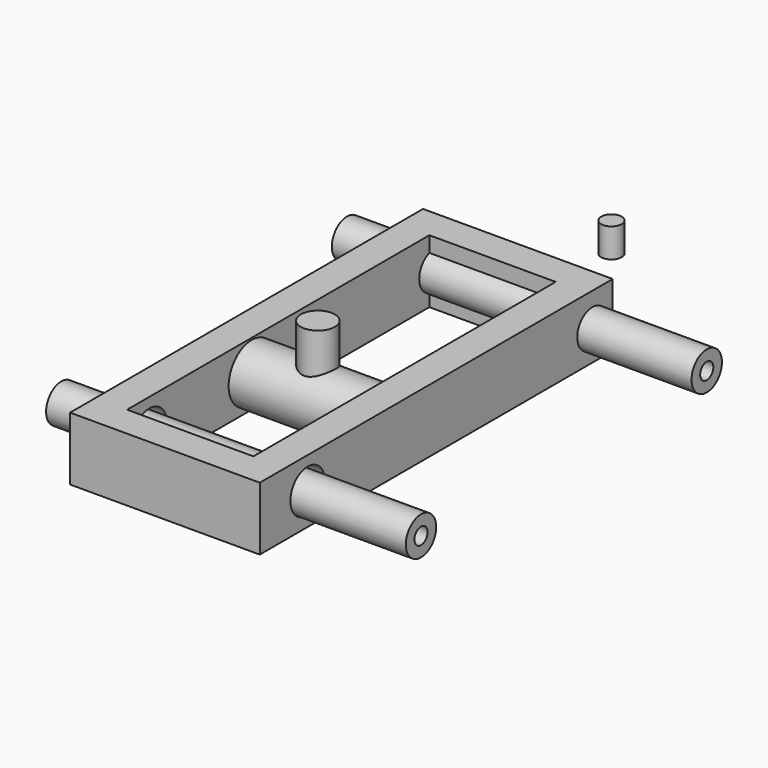
from build123d import *

# Parameters (mm, degrees)
F0_W      = 38.0365
F0_H      = 88.4682
F1_DEPTH  = 12.7
F2_W      = 25.3365
F2_H      = 75.7682
F3_DEPTH  = 25.4
F4_R      = 4.3212761508
F5_DEPTH  = 64.516
F6_R      = 1.6451547685
F7_DEPTH  = 67.31
F8_R      = 3.81
F8_R_2    = 1.6451547685
F9_DEPTH  = 72.136
F12_R     = 5.8133855358
F13_DEPTH = 29.464
F14_R     = 3.4045487812
F15_DEPTH = 7.112
F16_R     = 2.0608101162
F17_DEPTH = 5.842


with BuildPart() as f1:
    # F0 (on Top) → F1 (new body)
    with BuildSketch(Plane.XY):
        with Locations((-8.6641971774, -17.1663029512)):
            Rectangle(F0_W, F0_H)
    extrude(amount=F1_DEPTH)

    # F2 (on face) → F3 (cut)
    with BuildSketch(Plane.XY.offset(12.7)):
        with Locations((-8.6641971774, -17.1663029512)):
            Rectangle(F2_W, F2_H)
    extrude(amount=-F3_DEPTH, mode=Mode.SUBTRACT)

    # F4 (on face) → F5 (cut)
    with BuildSketch(Plane(origin=(-27.6824471774, 0, 0), x_dir=(0, -1, 0), z_dir=(-1, 0, 0))):
        with Locations((49.4116029512, 6.35)):
            Circle(F4_R)
        with Locations((49.4116029512, 6.35)):
            Circle(F4_R)
    extrude(amount=-F5_DEPTH, mode=Mode.SUBTRACT)

    # F6 (on face) → F7 (cut)
    with BuildSketch(Plane(origin=(-27.6824471774, 0, 0), x_dir=(0, -1, 0), z_dir=(-1, 0, 0))):
        with Locations((-21.9877970488, 5.9915324673)):
            Circle(F6_R)
    extrude(amount=-F7_DEPTH, mode=Mode.SUBTRACT)

    # F12 (on face) → F13 (join)
    with BuildSketch(Plane(origin=(4.0040528226, 0, 0), x_dir=(0, -1, 0), z_dir=(-1, 0, 0))):
        with Locations((23.7863045186, 6.5187844448)):
            Circle(F12_R)
    extrude(amount=F13_DEPTH)

    # F14 (on face) → F15 (join, symmetric)
    with BuildSketch(Plane.XY.offset(12.7)):
        with Locations((-8.3466889337, -23.4706178308)):
            Circle(F14_R)
    extrude(amount=F15_DEPTH, both=True)


with BuildPart() as f9:
    # F8 (on face) → F9 (new body)
    with BuildSketch(Plane(origin=(-27.6824471774, 0, 0), x_dir=(0, -1, 0), z_dir=(-1, 0, 0))):
        with Locations((-21.9877970488, 5.9915324673)):
            Circle(F8_R)
        with Locations((-21.9877970488, 5.9915324673)):
            Circle(F8_R_2, mode=Mode.SUBTRACT)
    extrude(amount=-F9_DEPTH)


with BuildPart() as f9_1:
    # F10: moved
    add(f9.part.moved(Location((-11.176, 0, 0))))


with BuildPart() as f11_1:
    # F11: copy of F9
    add(f9_1.part.moved(Location((0, -71.628, 0))))


with BuildPart() as f17:
    # F16 (on face) → F17 (new body)
    with BuildSketch(Plane.XY.offset(12.7)):
        with Locations((-2.2172140889, 42.4601435661)):
            Circle(F16_R)
    extrude(amount=-F17_DEPTH)


solid = Compound([f1.part, f9_1.part, f11_1.part, f17.part])
